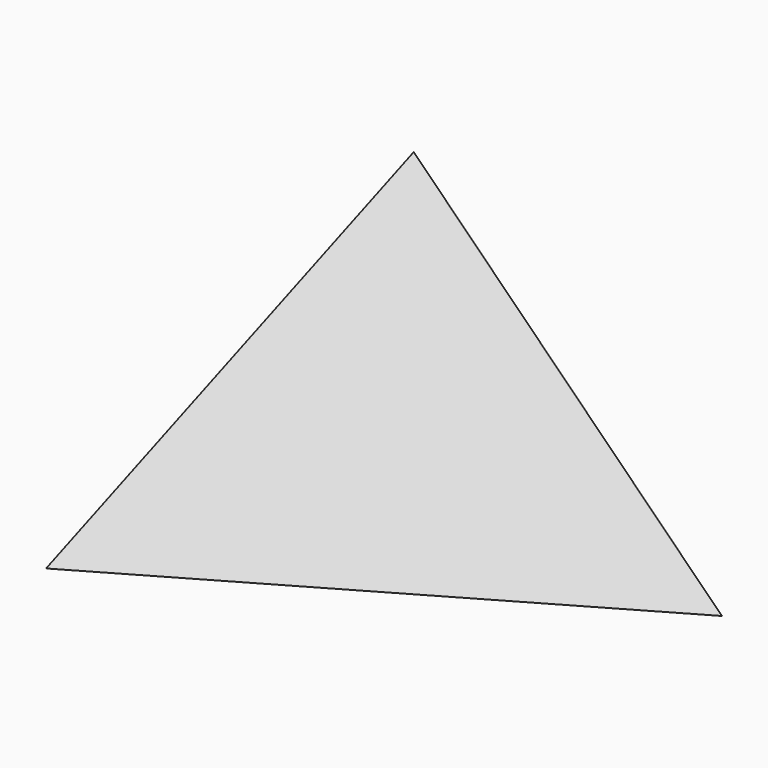
from build123d import *


with BuildPart() as f2:
    # F0 (on Top) → F2 section 0
    with BuildSketch(Plane.XY, mode=Mode.PRIVATE) as f2_s0:
        Polygon((-25.4, 43.994091), (-25.4, -43.994091), (50.8, 0), align=None)
    loft([f2_s0.sketch, Vertex(0, 0, 50.8)])


solid = f2.part
